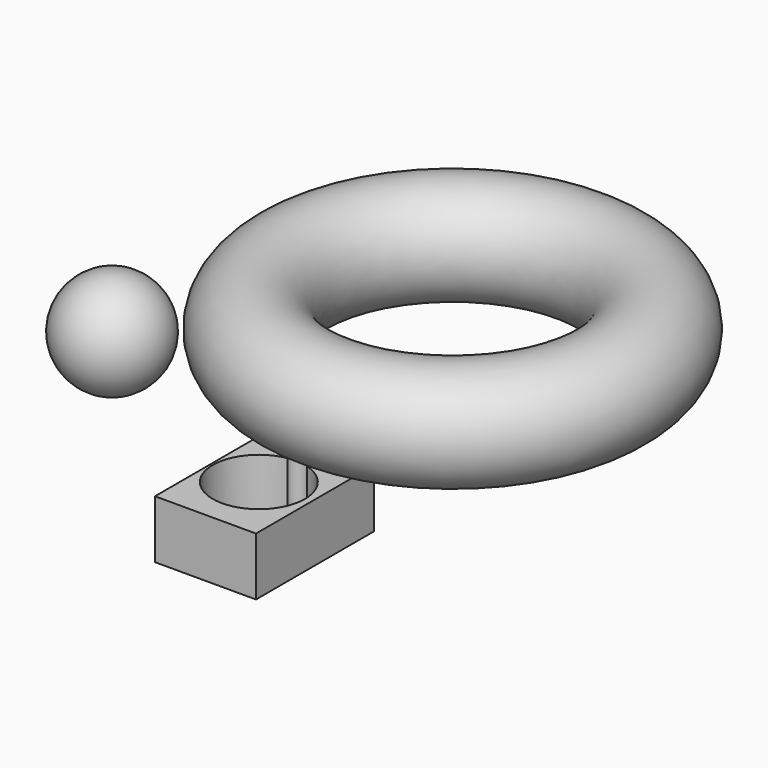
from build123d import *

# Parameters (mm, degrees)
F0_W     = 87.4825268984
F0_H     = 50.3099858761
F1_DEPTH = 127.9
F3_DEPTH = 83.7
F6_R     = 45.17523681


with BuildPart() as f1:
    # F0 (on Front) → F1 (new body)
    with BuildSketch(Plane.XZ):
        with Locations((43.7412634492, 25.154992938)):
            Rectangle(F0_W, F0_H)
    extrude(amount=F1_DEPTH)

    # F2 (on face) → F3 (cut)
    with BuildSketch(Plane.XY.offset(50.3099858761)):
        with BuildLine():
            ThreePointArc((53.0227136582, -29.4008820658), (44.2083089003, -27.8636202746), (35.2729543423, -28.3287481867))
            ThreePointArc((35.2729543423, -28.3287481867), (43.5926939306, -38.0554608243), (53.0227136582, -29.4008820658))
        make_face()
        with BuildLine():
            ThreePointArc((53.0227136582, -29.4008820658), (53.0248616732, -29.2880284812), (53.0255777167, -29.1751567274))
            ThreePointArc((53.0255777167, -29.1751567274), (44.5527735294, -20.2887620129), (35.2729543423, -28.3287481867))
            ThreePointArc((35.2729543423, -28.3287481867), (44.2083089003, -27.8636202746), (53.0227136582, -29.4008820658))
        make_face()
        with BuildLine():
            ThreePointArc((53.0227136582, -29.4008820658), (43.5926939306, -38.0554608243), (35.2729543423, -28.3287481867))
            ThreePointArc((35.2729543423, -28.3287481867), (15.994418582, -98.1391564864), (81.710091505, -67.6989629865))
            ThreePointArc((81.710091505, -67.6989629865), (73.7429812938, -43.7735128865), (53.0227136582, -29.4008820658))
        make_face()
    extrude(amount=-F3_DEPTH, mode=Mode.SUBTRACT)


with BuildPart() as f5:
    # F4 (on Front) → F5 (revolve)
    with BuildSketch(Plane.XZ):
        with BuildLine():
            Line((-139.5563930273, 33.85736208), (-139.5563930273, 123.2856551971))
            ThreePointArc((-139.5563930273, 123.2856551971), (-184.2705395859, 78.5715086386), (-139.5563930273, 33.85736208))
        make_face()
    revolve(axis=Axis((-139.5563930273, 0, 78.5715086386), (0, 0, -1)))


with BuildPart() as f7:
    # F6 (on Front) → F7 (revolve)
    with BuildSketch(Plane.XZ):
        with Locations((18.4968467802, 176.7002642155)):
            Circle(F6_R)
    revolve(axis=Axis((155.5860638618, 0, 160.7666350901), (0, 0, -1)))


solid = Compound([f1.part, f5.part, f7.part])
